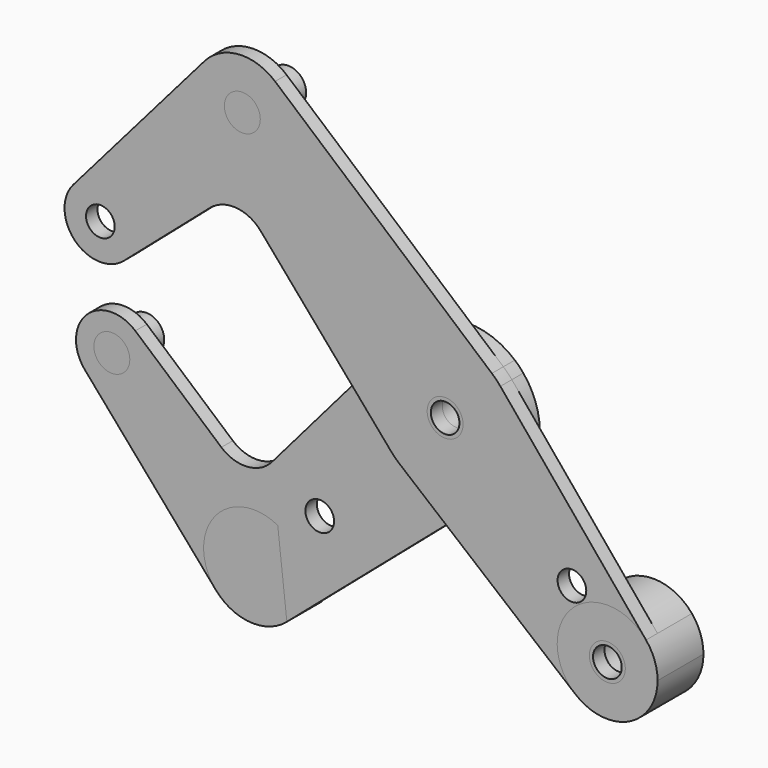
from build123d import *

# Parameters (mm, degrees)
F0_R          = 3.175
F0_R_2        = 3.9751
F1_DEPTH      = 3.175
F2_DEPTH      = 3.175
F3_DEPTH      = 3.175
F3_DEPTH_BACK = 3.175
F4_R          = 3.9751
F4_R_2        = 3.175
F6_DEPTH      = 12.7
F7_START      = -3.175
F7_DEPTH      = 9.525


with BuildPart() as f1:
    # F0 (on Front) → F1 (new body)
    with BuildSketch(Plane.XZ):
        with BuildLine():
            ThreePointArc((-12.0356034274, 10.3518054047), (-1.190625, 15.8302885984), (10.3518054047, 12.0356034274))
            Line((10.3518054047, 12.0356034274), (-37.655016822, 53.3262030046))
            ThreePointArc((-37.655016822, 53.3262030046), (-34.8014845049, 49.5361241819), (-33.7887806053, 44.9012806053))
            ThreePointArc((-33.7887806053, 44.9012806053), (-41.0369756168, 34.4823169714), (-53.3262030046, 37.655016822))
            ThreePointArc((-53.3262030046, 37.655016822), (-56.0137627922, 44.9211777548), (-53.300199871, 52.1776678558))
            Line((-53.300199871, 52.1776678558), (-82.331405076, 18.6678036462))
            ThreePointArc((-82.331405076, 18.6678036462), (-73.5586383483, 20.9075469092), (-68.3946770291, 13.4703841816))
            ThreePointArc((-68.3946770291, 13.4703841816), (-69.1121208226, 10.1727039932), (-71.1347575644, 7.4711561347))
            Line((-71.1347575644, 7.4711561347), (-52.0843267669, 23.9754595323))
            ThreePointArc((-52.0843267669, 23.9754595323), (-46.2965222838, 25.8954961667), (-40.8511612346, 23.1508168672))
            Line((-40.8511612346, 23.1508168672), (-20.9391765456, 0))
            Line((-20.9391765456, 0), (-12.0356034274, 10.3518054047))
        make_face()
        with BuildLine():
            ThreePointArc((28.8345692365, -44.4808030019), (28.0633003783, -28.0633003783), (44.4808030019, -28.8345692365))
            Line((44.4808030019, -28.8345692365), (12.2282550252, 10.1235074968))
            ThreePointArc((12.2282550252, 10.1235074968), (14.9355142785, 5.3801522504), (15.875, 0))
            ThreePointArc((15.875, 0), (14.4282801435, -6.6212051093), (10.3518054047, -12.0356034274))
            Line((10.3518054047, -12.0356034274), (0.1954344954, -20.7710836138))
            Line((0.1954344954, -20.7710836138), (28.8345692365, -44.4808030019))
        make_face()
        with Locations((28.0722806345, -23.5821525739)):
            Circle(F0_R, mode=Mode.SUBTRACT)
        with BuildLine():
            ThreePointArc((15.875, 0), (14.9355142785, 5.3801522504), (12.2282550252, 10.1235074968))
            ThreePointArc((12.2282550252, 10.1235074968), (11.3304373246, 11.1192092809), (10.3518054047, 12.0356034274))
            ThreePointArc((10.3518054047, 12.0356034274), (-1.190625, 15.8302885984), (-12.0356034274, 10.3518054047))
            ThreePointArc((-12.0356034274, 10.3518054047), (-15.875, 0), (-12.0356034274, -10.3518054047))
            ThreePointArc((-12.0356034274, -10.3518054047), (-11.1192092809, -11.3304373246), (-10.1235074968, -12.2282550252))
            ThreePointArc((-10.1235074968, -12.2282550252), (0.1493607821, -15.87429735), (10.3518054047, -12.0356034274))
            ThreePointArc((10.3518054047, -12.0356034274), (14.4282801435, -6.6212051093), (15.875, 0))
        make_face()
        Circle(F0_R_2, mode=Mode.SUBTRACT)
        with BuildLine():
            Line((-10.1235074968, -12.2282550252), (0.1954344954, -20.7710836138))
            Line((0.1954344954, -20.7710836138), (10.3518054047, -12.0356034274))
            ThreePointArc((10.3518054047, -12.0356034274), (0.1493607821, -15.87429735), (-10.1235074968, -12.2282550252))
        make_face()
        with BuildLine():
            ThreePointArc((-12.0356034274, -10.3518054047), (-15.875, 0), (-12.0356034274, 10.3518054047))
            Line((-12.0356034274, 10.3518054047), (-20.9391765456, 0))
            Line((-20.9391765456, 0), (-12.0356034274, -10.3518054047))
        make_face()
        with BuildLine():
            ThreePointArc((-33.7887806053, 44.9012806053), (-34.8014845049, 49.5361241819), (-37.655016822, 53.3262030046))
            ThreePointArc((-37.655016822, 53.3262030046), (-45.7148756595, 55.9839571475), (-53.300199871, 52.1776678558))
            ThreePointArc((-53.300199871, 52.1776678558), (-56.0137627922, 44.9211777548), (-53.3262030046, 37.655016822))
            ThreePointArc((-53.3262030046, 37.655016822), (-41.0369756168, 34.4823169714), (-33.7887806053, 44.9012806053))
        make_face()
        with Locations((-44.9012806053, 44.9012806053)):
            Circle(F0_R, mode=Mode.SUBTRACT)
        with BuildLine():
            ThreePointArc((-68.3946770291, 13.4703841816), (-73.5586383483, 20.9075469092), (-82.331405076, 18.6678036462))
            ThreePointArc((-82.331405076, 18.6678036462), (-81.9448371048, 7.8577241059), (-71.1347575644, 7.4711561347))
            ThreePointArc((-71.1347575644, 7.4711561347), (-69.1121208226, 10.1727039932), (-68.3946770291, 13.4703841816))
        make_face()
        with Locations((-76.3321770291, 13.4703841816)):
            Circle(F0_R, mode=Mode.SUBTRACT)
        with BuildLine():
            ThreePointArc((28.8345692365, -44.4808030019), (40.650687385, -45.9767663811), (47.0335244843, -35.9210244843))
            ThreePointArc((47.0335244843, -35.9210244843), (46.3758844792, -32.154917909), (44.4808030019, -28.8345692365))
            ThreePointArc((44.4808030019, -28.8345692365), (28.0633003783, -28.0633003783), (28.8345692365, -44.4808030019))
        make_face()
        with Locations((35.9210244843, -35.9210244843)):
            Circle(F0_R, mode=Mode.SUBTRACT)
    extrude(amount=F1_DEPTH)


with BuildPart() as f2:
    # F0 (on Front) → F2 (new body)
    with BuildSketch(Plane.XZ):
        with BuildLine():
            Line((-37.655016822, -53.3262030046), (0.1954344954, -20.7710836138))
            Line((0.1954344954, -20.7710836138), (-10.1235074968, -12.2282550252))
            ThreePointArc((-10.1235074968, -12.2282550252), (-11.1192092809, -11.3304373246), (-12.0356034274, -10.3518054047))
            Line((-12.0356034274, -10.3518054047), (-20.9391765456, 0))
            Line((-20.9391765456, 0), (-40.8511612346, -23.1508168672))
            ThreePointArc((-40.8511612346, -23.1508168672), (-46.2965222838, -25.8954961667), (-52.0843267669, -23.9754595323))
            Line((-52.0843267669, -23.9754595323), (-71.1347575644, -7.4711561347))
            ThreePointArc((-71.1347575644, -7.4711561347), (-69.1121208226, -10.1727039932), (-68.3946770291, -13.4703841816))
            ThreePointArc((-68.3946770291, -13.4703841816), (-73.5586383483, -20.9075469092), (-82.331405076, -18.6678036462))
            Line((-82.331405076, -18.6678036462), (-53.300199871, -52.1776678558))
            ThreePointArc((-53.300199871, -52.1776678558), (-56.0137627922, -44.9211777548), (-53.3262030046, -37.655016822))
            ThreePointArc((-53.3262030046, -37.655016822), (-41.0369756168, -34.4823169714), (-33.7887806053, -44.9012806053))
            ThreePointArc((-33.7887806053, -44.9012806053), (-34.8014845049, -49.5361241819), (-37.655016822, -53.3262030046))
        make_face()
        with Locations((-30.2993841525, -30.2993841525)):
            Circle(F0_R, mode=Mode.SUBTRACT)
        with BuildLine():
            ThreePointArc((-12.0356034274, -10.3518054047), (-15.875, 0), (-12.0356034274, 10.3518054047))
            Line((-12.0356034274, 10.3518054047), (-20.9391765456, 0))
            Line((-20.9391765456, 0), (-12.0356034274, -10.3518054047))
        make_face()
        with BuildLine():
            ThreePointArc((15.875, 0), (14.9355142785, 5.3801522504), (12.2282550252, 10.1235074968))
            ThreePointArc((12.2282550252, 10.1235074968), (11.3304373246, 11.1192092809), (10.3518054047, 12.0356034274))
            ThreePointArc((10.3518054047, 12.0356034274), (-1.190625, 15.8302885984), (-12.0356034274, 10.3518054047))
            ThreePointArc((-12.0356034274, 10.3518054047), (-15.875, 0), (-12.0356034274, -10.3518054047))
            ThreePointArc((-12.0356034274, -10.3518054047), (-11.1192092809, -11.3304373246), (-10.1235074968, -12.2282550252))
            ThreePointArc((-10.1235074968, -12.2282550252), (0.1493607821, -15.87429735), (10.3518054047, -12.0356034274))
            ThreePointArc((10.3518054047, -12.0356034274), (14.4282801435, -6.6212051093), (15.875, 0))
        make_face()
        Circle(F0_R_2, mode=Mode.SUBTRACT)
        with BuildLine():
            ThreePointArc((-53.300199871, -52.1776678558), (-45.7148756595, -55.9839571475), (-37.655016822, -53.3262030046))
            ThreePointArc((-37.655016822, -53.3262030046), (-34.8014845049, -49.5361241819), (-33.7887806053, -44.9012806053))
            ThreePointArc((-33.7887806053, -44.9012806053), (-41.0369756168, -34.4823169714), (-53.3262030046, -37.655016822))
            ThreePointArc((-53.3262030046, -37.655016822), (-56.0137627922, -44.9211777548), (-53.300199871, -52.1776678558))
        make_face()
        with Locations((-44.9012806053, -44.9012806053)):
            Circle(F0_R, mode=Mode.SUBTRACT)
        with BuildLine():
            ThreePointArc((-71.1347575644, -7.4711561347), (-81.9448371048, -7.8577241059), (-82.331405076, -18.6678036462))
            ThreePointArc((-82.331405076, -18.6678036462), (-73.5586383483, -20.9075469092), (-68.3946770291, -13.4703841816))
            ThreePointArc((-68.3946770291, -13.4703841816), (-69.1121208226, -10.1727039932), (-71.1347575644, -7.4711561347))
        make_face()
        with Locations((-76.3321770291, -13.4703841816)):
            Circle(F0_R, mode=Mode.SUBTRACT)
        with BuildLine():
            Line((-10.1235074968, -12.2282550252), (0.1954344954, -20.7710836138))
            Line((0.1954344954, -20.7710836138), (10.3518054047, -12.0356034274))
            ThreePointArc((10.3518054047, -12.0356034274), (0.1493607821, -15.87429735), (-10.1235074968, -12.2282550252))
        make_face()
    extrude(amount=-F2_DEPTH)

    # F0 (on Front) → F3 (join, two sides)
    with BuildSketch(Plane.XZ) as f3_sk:
        Circle(F0_R_2)
        Circle(F0_R, mode=Mode.SUBTRACT)
    extrude(amount=F3_DEPTH)
    extrude(f3_sk.sketch, amount=-F3_DEPTH_BACK)


with BuildPart() as f6:
    # F4 (on face) → F6 (new body, through all)
    with BuildSketch(Plane.XZ.offset(3.175)):
        with Locations((-44.9012806053, 44.9012806053)):
            Circle(F4_R)
        with Locations((-44.9012806053, 44.9012806053)):
            Circle(F4_R_2, mode=Mode.SUBTRACT)
        with Locations((-44.9012806053, 44.9012806053)):
            Circle(F4_R_2)
    extrude(amount=-F6_DEPTH)


with BuildPart() as f6b:
    # F4 (on face) → F6, piece 2 (new body, through all)
    with BuildSketch(Plane.XZ.offset(3.175)):
        with BuildLine():
            ThreePointArc((28.8345692365, -44.4808030019), (40.650687385, -45.9767663811), (47.0335244843, -35.9210244843))
            ThreePointArc((47.0335244843, -35.9210244843), (46.3758844792, -32.154917909), (44.4808030019, -28.8345692365))
            ThreePointArc((44.4808030019, -28.8345692365), (28.0633003783, -28.0633003783), (28.8345692365, -44.4808030019))
        make_face()
        with Locations((35.9210244843, -35.9210244843)):
            Circle(F4_R, mode=Mode.SUBTRACT)
    extrude(amount=-F6_DEPTH)


with BuildPart() as f7:
    # F4 (on face) → F7 (new body)
    with BuildSketch(Plane.XZ.offset(3.175).offset(F7_START)):
        with BuildLine():
            Line((-37.5830393389, -53.2637563761), (-39.5971984414, -35.1363244535))
            ThreePointArc((-39.5971984414, -35.1363244535), (-55.9458136069, -46.1284509389), (-37.5830393389, -53.2637563761))
        make_face()
    extrude(amount=-F7_DEPTH)


with BuildPart() as f7b:
    # F4 (on face) → F7, piece 2 (new body)
    with BuildSketch(Plane.XZ.offset(3.175).offset(F7_START)):
        with Locations((-76.3321770291, -13.4703841816)):
            Circle(F4_R)
    extrude(amount=-F7_DEPTH)


solid = Compound([f1.part, f2.part, f6.part, f6b.part, f7.part, f7b.part])
